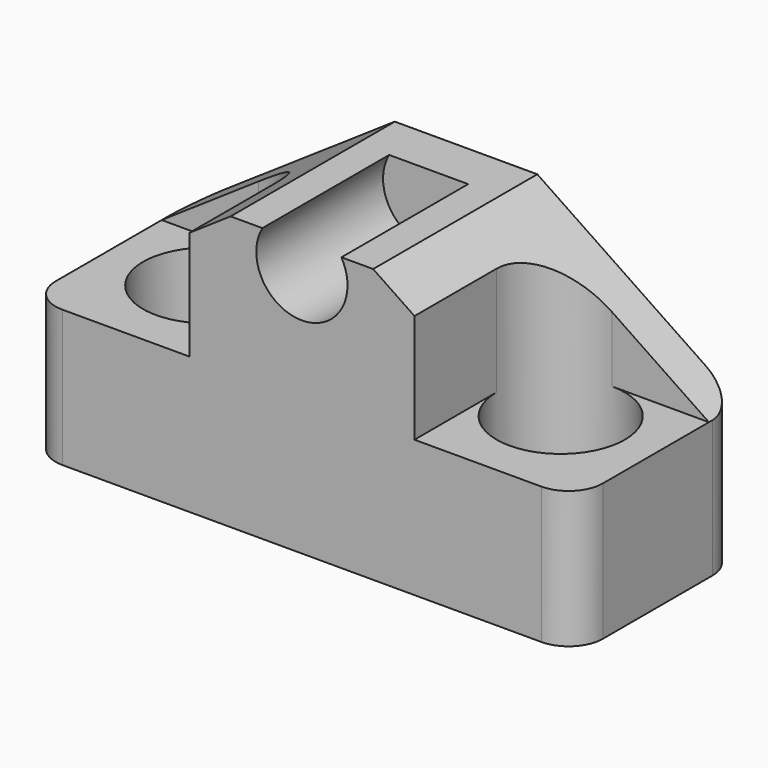
from build123d import *

# Parameters (mm, degrees)
F1_DEPTH       = 18
F3_DEPTH       = 13.9
F5_DEPTH       = 12
F7_D           = 6.6
F7_CBORE_D     = 11.25
F7_CBORE_DEPTH = 6
F8_R           = 3


with BuildPart() as f1:
    # F0 (on Front) → F1 (new body)
    with BuildSketch(Plane.XZ):
        Polygon((0, 12), (0, 0), (48, 0), (48, 12), (30.25, 24), (17.75, 24), align=None)
    extrude(amount=F1_DEPTH)

    # F2 (on face) → F3 (cut)
    with BuildSketch(Plane.XZ.offset(18)):
        with BuildLine():
            ThreePointArc((20.5358983849, 24), (22.9647238196, 18.1362966948), (28, 22))
            ThreePointArc((28, 22), (27.8637033052, 23.0352761804), (27.4641016151, 24))
            Line((27.4641016151, 24), (20.5358983849, 24))
        make_face()
    extrude(amount=-F3_DEPTH, mode=Mode.SUBTRACT)

    # F4 (on face) → F5 (cut)
    with BuildSketch(Plane.XY.offset(24)):
        with BuildLine():
            Line((8.5, -3.375), (0, -3.375))
            Line((0, -3.375), (0, -18))
            Line((0, -18), (14.125, -18))
            Line((14.125, -18), (14.125, -9))
            ThreePointArc((14.125, -9), (12.4774756442, -5.0225243558), (8.5, -3.375))
        make_face()
        with BuildLine():
            ThreePointArc((39.5, -3.375), (35.5225243558, -5.0225243558), (33.875, -9))
            Line((33.875, -9), (33.875, -18))
            Line((33.875, -18), (48, -18))
            Line((48, -18), (48, -3.375))
            Line((48, -3.375), (39.5, -3.375))
        make_face()
    extrude(amount=-F5_DEPTH, mode=Mode.SUBTRACT)

    # F7 (through all)
    with Locations(Plane.XY.offset(12)):
        with Locations((8.5, -9), (39.5, -9)):
            CounterBoreHole(F7_D / 2, F7_CBORE_D / 2, F7_CBORE_DEPTH)

    # F8
    f8_edges = [f1.edges().sort_by_distance(p)[0] for p in [
        (0, 0, 6),
        (0, -18, 6),
        (48, -18, 6),
        (48, 0, 6),
    ]]
    fillet(f8_edges, radius=F8_R)


solid = f1.part
